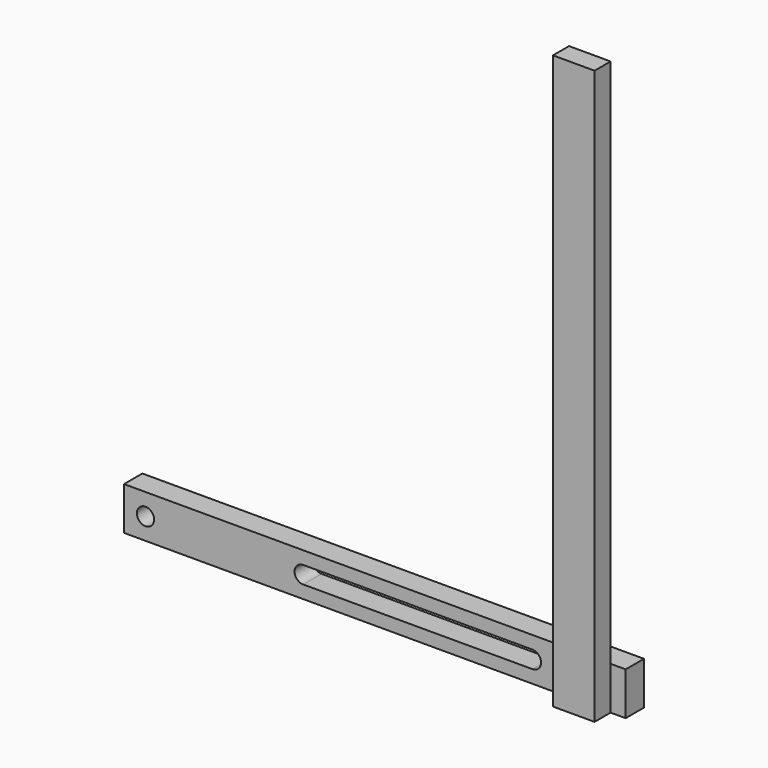
from build123d import *

# Parameters (mm, degrees)
F0_W     = 150
F0_H     = 15
F0_R     = 3
F1_DEPTH = 4
F2_W     = 8
F2_H     = 15
F3_DEPTH = 25
F4_W     = 14.5
F4_H     = 7
F5_DEPTH = 200


with BuildPart() as f1:
    # F0 (on Front) → F1 (new body, symmetric)
    with BuildSketch(Plane.XZ):
        with Locations((67.5, 0)):
            Rectangle(F0_W, F0_H)
        Circle(F0_R, mode=Mode.SUBTRACT)
        with BuildLine():
            ThreePointArc((55, -3), (52, 0), (55, 3))
            Line((55, 3), (135, 3))
            ThreePointArc((135, 3), (138, 0), (135, -3))
            Line((135, -3), (55, -3))
        make_face(mode=Mode.SUBTRACT)
    extrude(amount=F1_DEPTH, both=True)

    # F2 (on face) → F3 (join)
    with BuildSketch(Plane.YZ.offset(142.5)):
        Rectangle(F2_W, F2_H)
    extrude(amount=F3_DEPTH)

    # F4 (on face) → F5 (join)
    with BuildSketch(Plane(origin=(0, 0, -7.5), x_dir=(1, 0, 0), z_dir=(0, 0, -1))):
        with Locations((155, 7.5)):
            Rectangle(F4_W, F4_H)
    extrude(amount=-F5_DEPTH)


solid = f1.part
